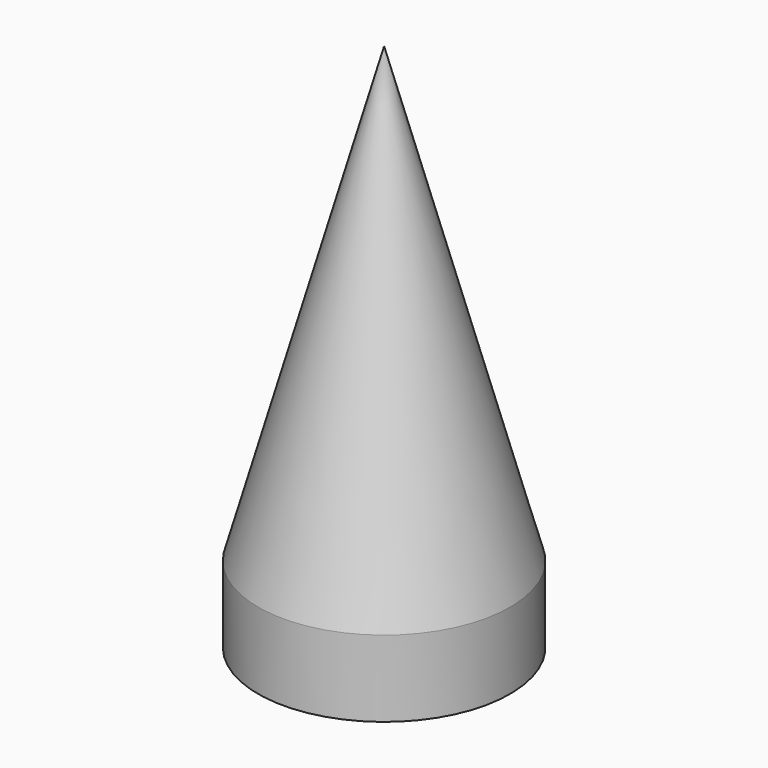
from build123d import *

# Parameters (mm, degrees)
F3_ANGLE = 90


with BuildPart() as f1:
    # F0 (on Top) → F1 (revolve)
    with BuildSketch(Plane.XY):
        Polygon((0, 8.9), (0, 7.9), (2.4, 7.9), (2.4, 6.8), (5.4, 6.8), (5.4, 7.9), (34.4, 0), (37.4, 0), (5.4, 8.9), align=None)
    revolve(axis=Axis((12.5827532146, 0, 0), (1, 0, 0)))


with BuildPart() as f1_1:
    # F3: moved
    add(f1.part.rotate(Axis((0, 0, 0), (0, -1, 0)), F3_ANGLE))


solid = f1_1.part
